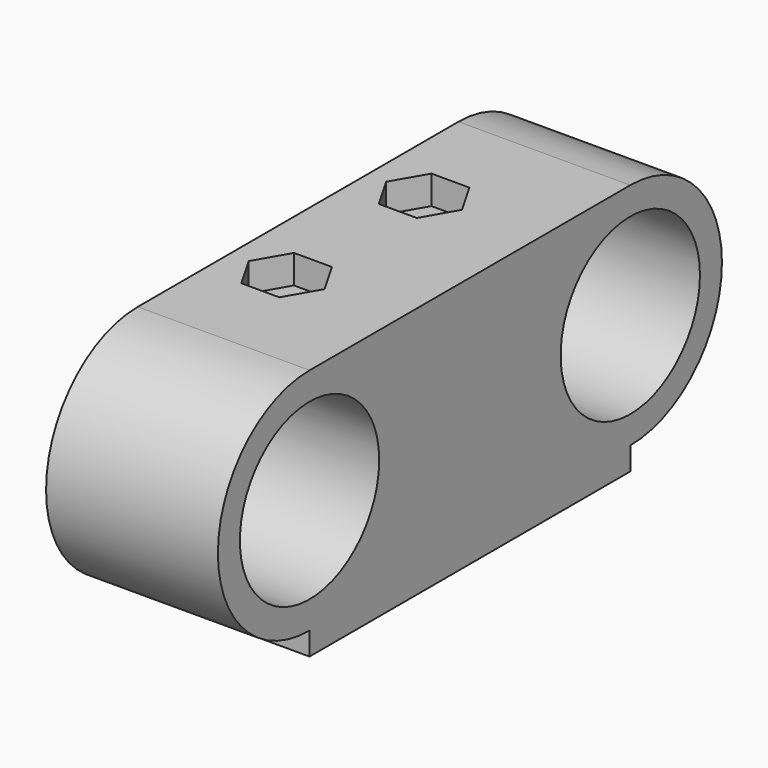
from build123d import *

# Parameters (mm, degrees)
SKETCH039_R          = 7.6
PAD012_DEPTH         = 15
SKETCH040_R          = 1.5
POCKET024_DEPTH      = 10.001
POCKET024_DEPTH_BACK = 12.001
POCKET025_DEPTH      = 2.5


with BuildPart() as part:
    # Sketch039 → Pad012 (new body)
    with BuildSketch(Plane.YZ):
        with BuildLine():
            Line((-17.5, 10), (17.5, 10))
            ThreePointArc((17.5, -10), (27.5, 0), (17.5, 10))
            Line((17.5, -12), (17.5, -10))
            Line((-17.5, -12), (17.5, -12))
            Line((-17.5, -10), (-17.5, -12))
            ThreePointArc((-17.5, 10), (-27.5, 0), (-17.5, -10))
        make_face()
        with Locations((17.5, 0)):
            Circle(SKETCH039_R, mode=Mode.SUBTRACT)
        with Locations((-17.5, 0)):
            Circle(SKETCH039_R, mode=Mode.SUBTRACT)
    extrude(amount=PAD012_DEPTH)

    # Sketch040 → Pocket024 (cut, two sides)
    with BuildSketch(Plane.XY) as pocket024_sk:
        with Locations((5, 7.5)):
            Circle(SKETCH040_R)
        with Locations((5, -7.5)):
            Circle(SKETCH040_R)
    extrude(amount=POCKET024_DEPTH, mode=Mode.SUBTRACT)
    extrude(pocket024_sk.sketch, amount=-POCKET024_DEPTH_BACK, mode=Mode.SUBTRACT)

    # Sketch041 → Pocket025 (cut)
    with BuildSketch(Plane.XY.offset(10)):
        Polygon((6.6575, 10.3708742135), (3.3425, 10.3708742135), (1.685, 7.5), (3.3425, 4.6291257865), (6.6575, 4.6291257865), (8.315, 7.5), align=None)
        Polygon((6.6575, -4.6291257865), (3.3425, -4.6291257865), (1.685, -7.5), (3.3425, -10.3708742135), (6.6575, -10.3708742135), (8.315, -7.5), align=None)
    extrude(amount=-POCKET025_DEPTH, mode=Mode.SUBTRACT)


with BuildPart() as part_1:
    # Body007 placement: moved
    add(part.part.moved(Location((30, 0, -50))))


solid = part_1.part
